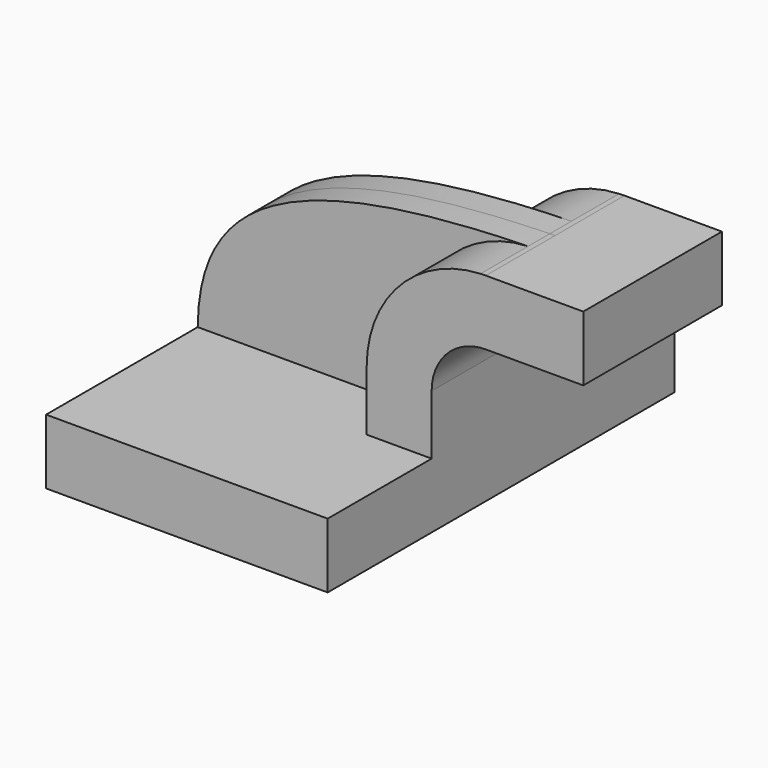
from build123d import *

# Parameters (mm, degrees)
F1_DEPTH = 63.5
F0_W     = 25.4
F0_H     = 19.05
F2_DEPTH = 25.4
F3_DEPTH = 7.9375


with BuildPart() as f1:
    # F0 (on Front) → F1 (new body, symmetric)
    with BuildSketch(Plane.XZ):
        Polygon((41.275, -9.525), (41.275, 9.525), (22.225, 9.525), (-41.275, 9.525), (-41.275, -9.525), align=None)
    extrude(amount=F1_DEPTH, both=True)

    # F0 (on Front) → F2 (join, symmetric)
    with BuildSketch(Plane.XZ):
        with BuildLine():
            Line((22.225, 9.525), (41.275, 9.525))
            Line((41.275, 9.525), (41.275, 27.0002))
            ThreePointArc((41.275, 27.0002), (45.9246798487, 38.2255201513), (57.15, 42.8752))
            Line((57.15, 42.8752), (60.325, 42.8752))
            Line((60.325, 42.8752), (60.325, 61.9252))
            Line((60.325, 61.9252), (57.15, 61.9252))
            add(Edge.make_bspline(
                [(55.5932773948, 61.8904886163), (56.1098349358, 61.9028294033), (56.628740299, 61.9143991352), (57.15, 61.9252)],
                knots=[110.6833080475, 110.6833080475, 110.6833080475, 110.6833080475, 111.5045361635, 111.5045361635, 111.5045361635, 111.5045361635], degree=3))
            ThreePointArc((55.5932773948, 61.8904886163), (31.9099112325, 51.1392460459), (22.225, 27.0002))
            Line((22.225, 27.0002), (22.225, 9.525))
        make_face()
        with Locations((73.025, 52.4002)):
            Rectangle(F0_W, F0_H)
    extrude(amount=F2_DEPTH, both=True)

    # F0 (on Front) → F3 (join, symmetric)
    with BuildSketch(Plane.XZ):
        with BuildLine():
            Line((-41.275, 9.525), (22.225, 9.525))
            Line((22.225, 9.525), (22.225, 27.0002))
            ThreePointArc((22.225, 27.0002), (31.9099112325, 51.1392460459), (55.5932773948, 61.8904886163))
            add(Edge.make_bspline(
                [(-41.275, 9.525), (-40.9993751312, 44.557704562), (-14.0272048052, 60.2272246577), (55.5932773948, 61.8904886163)],
                knots=[0, 0, 0, 0, 110.6833080475, 110.6833080475, 110.6833080475, 110.6833080475], degree=3))
        make_face()
    extrude(amount=F3_DEPTH, both=True)


solid = f1.part
